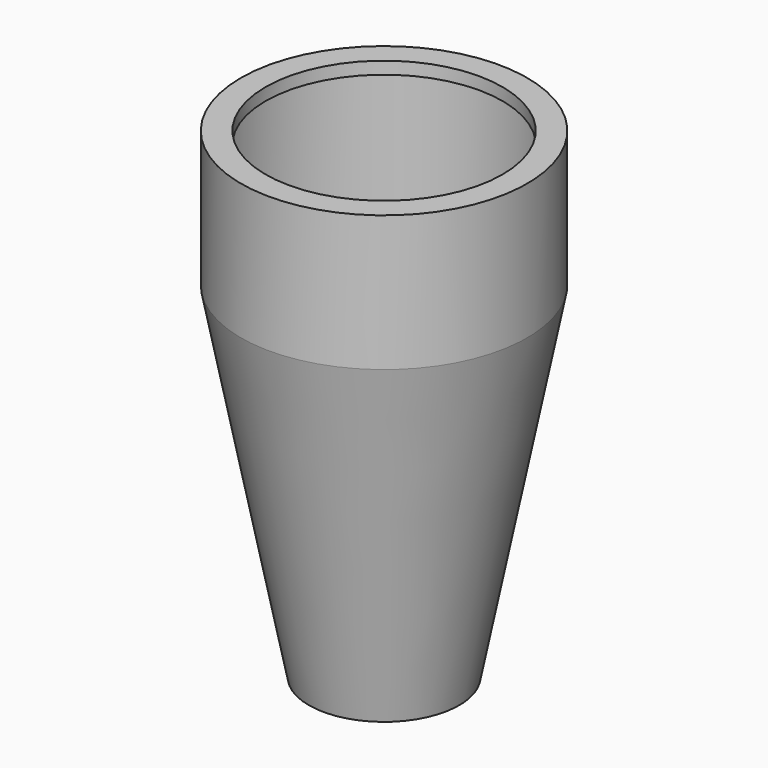
from build123d import *


with BuildPart() as f1:
    # F0 (on Front) → F1 (revolve)
    with BuildSketch(Plane.XZ):
        Polygon((-960, 100), (-1160, 100), (-1160, 0), (-1140, 0), (-960, 0), align=None)
        Polygon((-1140, 0), (-1160, 0), (-1160, -1000), (-609.5, -3800), (-589.875687, -3796.14172), (-1140, -998.052569), align=None)
    revolve(axis=Axis((0, 0, -205.782756), (0, 0, -1)))


solid = f1.part
